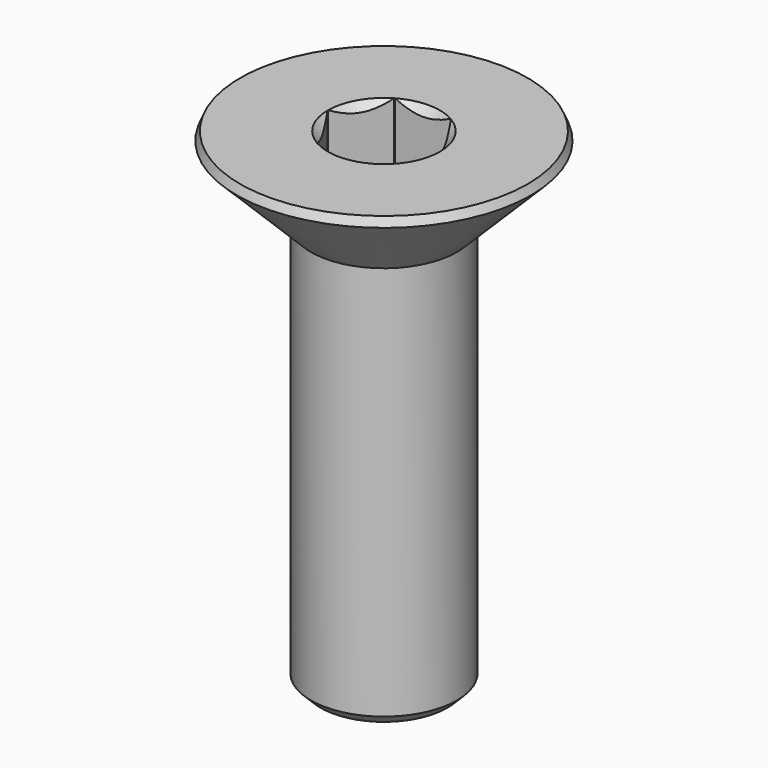
from build123d import *

# Parameters (mm, degrees)
SKETCH001_R     = 2.15
POCKET_DEPTH    = 3.119566
CHAMFER_SIZE    = 0.25
CHAMFER001_SIZE = 0.2


with BuildPart() as pocket:
    # Sketch003 → Revolution001 (revolve)
    with BuildSketch(Plane.XZ):
        Polygon((0, -2.118566), (1.15, -1.7), (1.15, 1), (0, 1), align=None)
    revolve(axis=Axis((0, 0, 0), (0, 0, 1)))

    # Sketch001 → Pocket (cut, through all)
    with BuildSketch(Plane(origin=(0, 0, 1), x_dir=(-1, 0, 0), z_dir=(0, 0, 1))):
        Circle(SKETCH001_R)
        Polygon((-0.57735, 1), (0.57735, 1), (1.154701, 0), (0.57735, -1), (-0.57735, -1), (-1.154701, 0), align=None, mode=Mode.SUBTRACT)
    extrude(amount=-POCKET_DEPTH, mode=Mode.SUBTRACT)


with BuildPart() as chamfer001:
    # Sketch → Revolution (revolve)
    with BuildSketch(Plane.XZ):
        Polygon((1.15, 0), (3.199999, 0), (1.5, -1.7), (1.5, -10), (0, -10), (0, -1.150001), align=None)
    revolve(axis=Axis((0, 0, 0), (0, 0, 1)))

    # Cut: cut Pocket
    add(pocket.part, mode=Mode.SUBTRACT)

    # Chamfer
    chamfer_edges = [chamfer001.edges().sort_by_distance(p)[0] for p in [
        (-3.199999, 0, 0),
    ]]
    chamfer(chamfer_edges, length=CHAMFER_SIZE)

    # Chamfer001
    chamfer001_edges = [chamfer001.edges().sort_by_distance(p)[0] for p in [
        (-1.5, 0, -10),
    ]]
    chamfer(chamfer001_edges, length=CHAMFER001_SIZE)


solid = chamfer001.part
